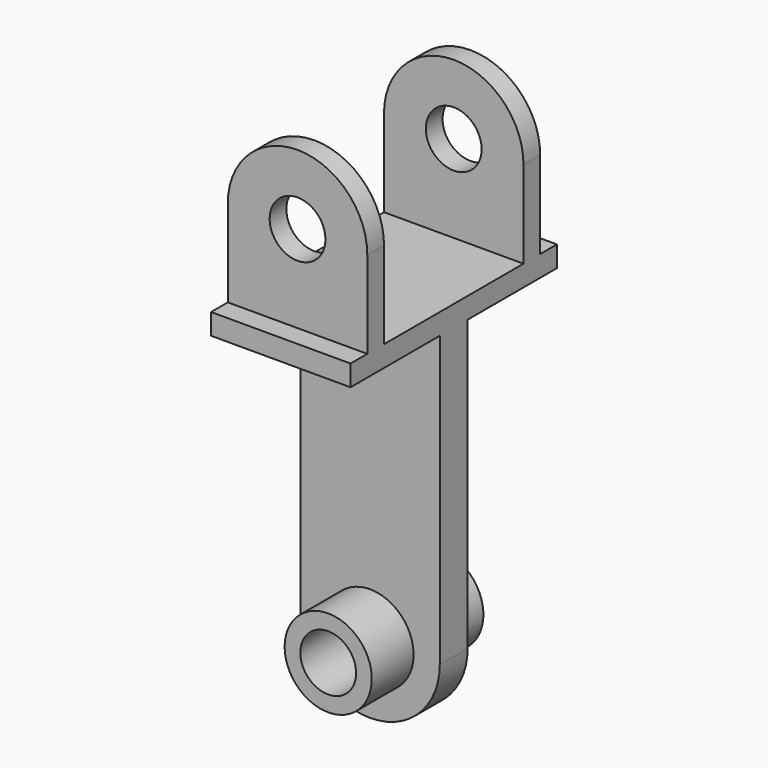
from build123d import *

# Parameters (mm, degrees)
F0_W     = 40
F0_H     = 6
F1_DEPTH = 37
F2_DEPTH = 5
F3_DEPTH = 31
F4_DEPTH = 25
F5_DEPTH = 20


with BuildPart() as f1:
    # F0 (on Front) → F1 (new body)
    with BuildSketch(Plane.XZ):
        with Locations((-14.9053405225, 48.0189405978)):
            Rectangle(F0_W, F0_H)
    extrude(amount=F1_DEPTH)

    # F0 (on Front) → F2 (join)
    with BuildSketch(Plane.XZ):
        with BuildLine():
            Line((5.0946594775, -37.9810594022), (5.0946594775, 45.0189405978))
            Line((5.0946594775, 45.0189405978), (-34.9053405225, 45.0189405978))
            Line((-34.9053405225, 45.0189405978), (-34.9053405225, -37.9810594022))
            Line((-34.9053405225, -37.9810594022), (-27.4053405225, -37.9810594022))
            ThreePointArc((-27.4053405225, -37.9810594022), (-14.9053405225, -25.4810594022), (-2.4053405225, -37.9810594022))
            Line((-2.4053405225, -37.9810594022), (5.0946594775, -37.9810594022))
        make_face()
        with BuildLine():
            ThreePointArc((-34.9053405225, -37.9810594022), (-14.9053405225, -57.9810594022), (5.0946594775, -37.9810594022))
            Line((5.0946594775, -37.9810594022), (-2.4053405225, -37.9810594022))
            ThreePointArc((-2.4053405225, -37.9810594022), (-14.9053405225, -50.4810594022), (-27.4053405225, -37.9810594022))
            Line((-27.4053405225, -37.9810594022), (-34.9053405225, -37.9810594022))
        make_face()
    extrude(amount=F2_DEPTH)

    # F0 (on Front) → F3 (join)
    with BuildSketch(Plane.XZ):
        with BuildLine():
            Line((5.0946594775, 76.0189405978), (-6.9053405225, 76.0189405978))
            ThreePointArc((-6.9053405225, 76.0189405978), (-14.9053405225, 68.0189405978), (-22.9053405225, 76.0189405978))
            Line((-22.9053405225, 76.0189405978), (-34.9053405225, 76.0189405978))
            Line((-34.9053405225, 76.0189405978), (-34.9053405225, 51.0189405978))
            Line((-34.9053405225, 51.0189405978), (5.0946594775, 51.0189405978))
            Line((5.0946594775, 51.0189405978), (5.0946594775, 76.0189405978))
        make_face()
        with BuildLine():
            ThreePointArc((-22.9053405225, 76.0189405978), (-14.9053405225, 84.0189405978), (-6.9053405225, 76.0189405978))
            Line((-6.9053405225, 76.0189405978), (5.0946594775, 76.0189405978))
            ThreePointArc((5.0946594775, 76.0189405978), (-14.9053405225, 96.0189405978), (-34.9053405225, 76.0189405978))
            Line((-34.9053405225, 76.0189405978), (-22.9053405225, 76.0189405978))
        make_face()
    extrude(amount=F3_DEPTH)

    # F0 (on Front) → F4 (cut)
    with BuildSketch(Plane.XZ):
        with BuildLine():
            Line((5.0946594775, 76.0189405978), (-6.9053405225, 76.0189405978))
            ThreePointArc((-6.9053405225, 76.0189405978), (-14.9053405225, 68.0189405978), (-22.9053405225, 76.0189405978))
            Line((-22.9053405225, 76.0189405978), (-34.9053405225, 76.0189405978))
            Line((-34.9053405225, 76.0189405978), (-34.9053405225, 51.0189405978))
            Line((-34.9053405225, 51.0189405978), (5.0946594775, 51.0189405978))
            Line((5.0946594775, 51.0189405978), (5.0946594775, 76.0189405978))
        make_face()
        with BuildLine():
            ThreePointArc((-22.9053405225, 76.0189405978), (-14.9053405225, 84.0189405978), (-6.9053405225, 76.0189405978))
            Line((-6.9053405225, 76.0189405978), (5.0946594775, 76.0189405978))
            ThreePointArc((5.0946594775, 76.0189405978), (-14.9053405225, 96.0189405978), (-34.9053405225, 76.0189405978))
            Line((-34.9053405225, 76.0189405978), (-22.9053405225, 76.0189405978))
        make_face()
    extrude(amount=F4_DEPTH, mode=Mode.SUBTRACT)

    # F0 (on Front) → F5 (join)
    with BuildSketch(Plane.XZ):
        with BuildLine():
            Line((-6.9053405225, -37.9810594022), (-2.4053405225, -37.9810594022))
            ThreePointArc((-2.4053405225, -37.9810594022), (-14.9053405225, -25.4810594022), (-27.4053405225, -37.9810594022))
            Line((-27.4053405225, -37.9810594022), (-22.9053405225, -37.9810594022))
            ThreePointArc((-22.9053405225, -37.9810594022), (-14.9053405225, -29.9810594022), (-6.9053405225, -37.9810594022))
        make_face()
        with BuildLine():
            ThreePointArc((-27.4053405225, -37.9810594022), (-14.9053405225, -50.4810594022), (-2.4053405225, -37.9810594022))
            Line((-2.4053405225, -37.9810594022), (-6.9053405225, -37.9810594022))
            ThreePointArc((-6.9053405225, -37.9810594022), (-14.9053405225, -45.9810594022), (-22.9053405225, -37.9810594022))
            Line((-22.9053405225, -37.9810594022), (-27.4053405225, -37.9810594022))
        make_face()
    extrude(amount=F5_DEPTH)

    # F6: F1 across plane


with BuildPart() as f1_1:
    add(f1.part)
    add(f1.part.mirror(Plane.XZ))


solid = f1_1.part
